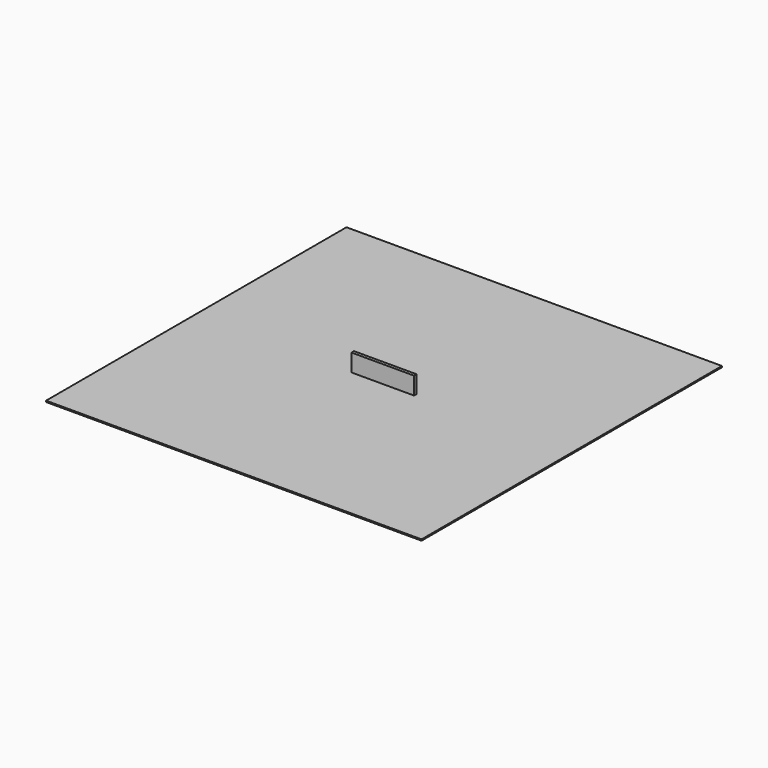
from build123d import *

# Parameters (mm, degrees)
F0_W     = 3000
F0_H     = 3000
F1_DEPTH = 10
F3_DEPTH = 12.5


with BuildPart() as f1:
    # F0 (on Top) → F1 (new body)
    with BuildSketch(Plane.XY):
        Rectangle(F0_W, F0_H)
    extrude(amount=F1_DEPTH)


with BuildPart() as f3:
    # F2 (on Front) → F3 (new body, symmetric)
    with BuildSketch(Plane.XZ):
        Polygon((250, 150), (-250, 150), (-250, -150), (-114.291489, -150), (-114.291489, 0), (119.976074, 0), (119.976074, -150), (250, -150), align=None)
    extrude(amount=F3_DEPTH, both=True)


solid = Compound([f1.part, f3.part])
